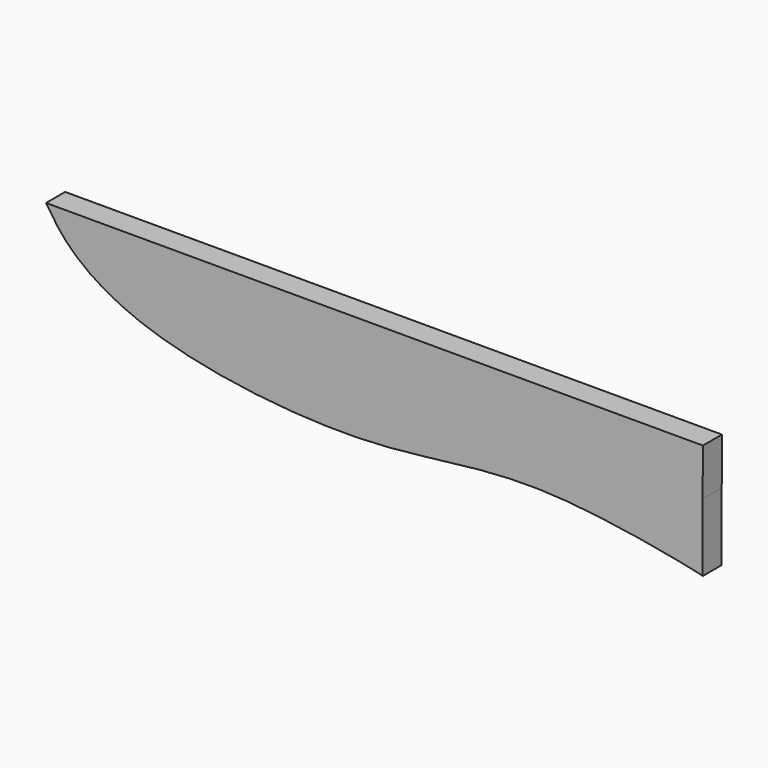
from build123d import *

# Parameters (mm, degrees)
F1_DEPTH = 25.4
F2_DEPTH = 5


with BuildPart() as f1:
    # F0 (on Front) → F1 (new body)
    with BuildSketch(Plane.XZ):
        with BuildLine():
            Line((340.7550662756, 32.2813168168), (-359.2449337244, 32.2813168168))
            add(Edge.make_bspline(
                [(-359.2449337244, 32.2813168168), (-352.5379748541, 21.6919399708), (-335.3057977476, -5.5153265097), (-247.4821775029, -64.796362583), (-3.8128095876, -92.9031288097), (151.6209531311, -48.5596215673), (339.9349238934, -89.224962992), (340.5673378529, -90.2970232241), (340.5688461394, -90.3015534119)],
                knots=[0, 0, 0, 0, 0.1084655731, 0.2786803976, 0.5399733478, 0.7797578602, 0.9962193954, 0.9971933981, 0.9971933981, 0.9971933981, 0.9971933981], degree=3))
            Line((340.5688461394, -90.3015534119), (340.559887749, -17.7183022352))
            Line((340.559887749, -17.7183022352), (340.7550662756, 32.2813168168))
        make_face()
    extrude(amount=F1_DEPTH)

    # F0 (on Front) → F2 (join)
    with BuildSketch(Plane.XZ):
        with BuildLine():
            Line((340.7550662756, 32.2813168168), (-359.2449337244, 32.2813168168))
            add(Edge.make_bspline(
                [(-359.2449337244, 32.2813168168), (-352.5379748541, 21.6919399708), (-335.3057977476, -5.5153265097), (-247.4821775029, -64.796362583), (-3.8128095876, -92.9031288097), (151.6209531311, -48.5596215673), (339.9349238934, -89.224962992), (340.5673378529, -90.2970232241), (340.5688461394, -90.3015534119)],
                knots=[0, 0, 0, 0, 0.1084655731, 0.2786803976, 0.5399733478, 0.7797578602, 0.9962193954, 0.9971933981, 0.9971933981, 0.9971933981, 0.9971933981], degree=3))
            Line((340.5688461394, -90.3015534119), (340.559887749, -17.7183022352))
            Line((340.559887749, -17.7183022352), (340.7550662756, 32.2813168168))
        make_face()
    extrude(amount=F2_DEPTH)


solid = f1.part
